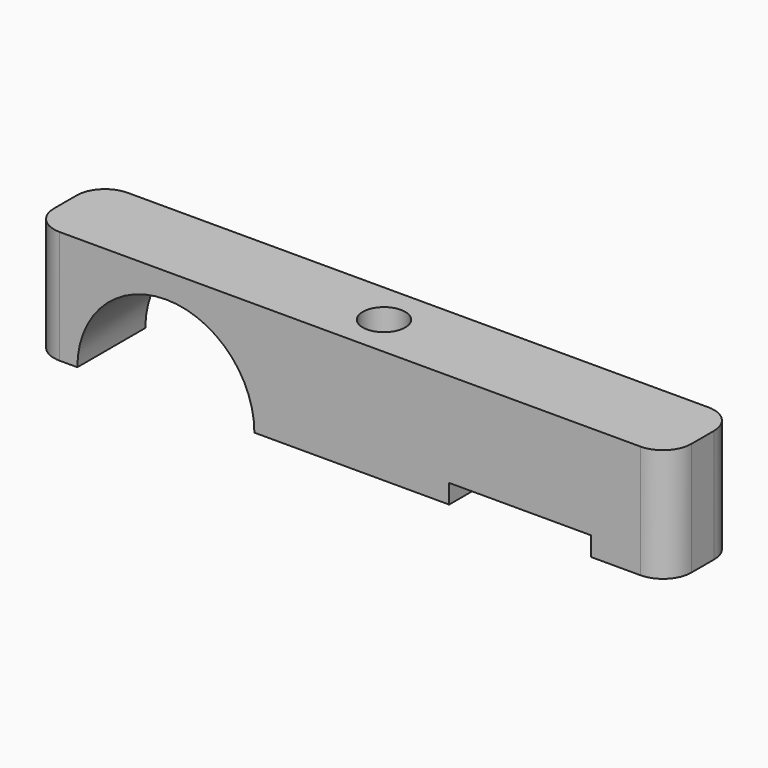
from build123d import *

# Parameters (mm, degrees)
F0_W     = 45
F0_H     = 6
F1_DEPTH = 8
F2_W     = 10
F2_H     = 1.35
F3_DEPTH = 6.001
F4_R     = 1.5
F5_DEPTH = 8.001
F6_R     = 2


with BuildPart() as f1:
    # F0 (on Top) → F1 (new body)
    with BuildSketch(Plane.XY):
        Rectangle(F0_W, F0_H)
    extrude(amount=F1_DEPTH)

    # F2 (on face) → F3 (cut, through all)
    with BuildSketch(Plane.XZ.offset(3)):
        with BuildLine():
            Line((-19.25, 0), (-6.75, 0))
            ThreePointArc((-6.75, 0), (-13, 6.25), (-19.25, 0))
        make_face()
        with Locations((12, 0.675)):
            Rectangle(F2_W, F2_H)
    extrude(amount=-F3_DEPTH, mode=Mode.SUBTRACT)

    # F4 (on face) → F5 (cut, through all)
    with BuildSketch(Plane.XY.offset(8)):
        Circle(F4_R)
    extrude(amount=-F5_DEPTH, mode=Mode.SUBTRACT)

    # F6
    f6_edges = [f1.edges().sort_by_distance(p)[0] for p in [
        (-22.5, -3, 4),
        (-22.5, 3, 4),
        (22.5, -3, 4),
        (22.5, 3, 4),
    ]]
    fillet(f6_edges, radius=F6_R)


solid = f1.part
